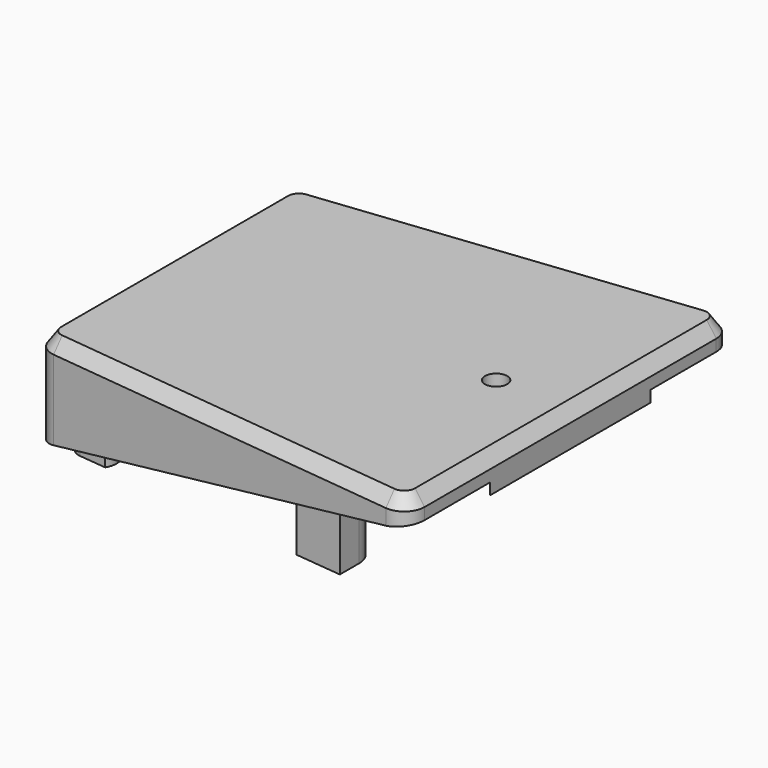
from build123d import *

# Parameters (mm, degrees)
PAD008_DEPTH         = 14
PAD008_DEPTH_BACK    = 5
POCKET006_DEPTH      = 30.001
POCKET006_DEPTH_BACK = 30.001
POCKET032_DEPTH      = 13.2908094213
PAD015_DEPTH         = 16
SKETCH026_W          = 0.7
SKETCH026_H          = 12
SKETCH027_W          = 0.7
SKETCH027_H          = 14
POCKET033_DEPTH      = 14.501
SKETCH037_R          = 1.65
POCKET034_DEPTH      = 14.001
PAD016_DEPTH         = 3
SKETCH036_W          = 6
SKETCH036_H          = 40
POCKET035_DEPTH      = 14.501
POCKET036_DEPTH      = 0.701
PAD017_DEPTH         = 10


with BuildPart() as part:
    # Sketch020 → Pad008 (new body, two sides)
    with BuildSketch(Plane.XY) as pad008_sk:
        with BuildLine():
            Line((26.6687054218, 29.981651204), (-27.3312945782, 23.981651204))
            ThreePointArc((-27.3312945782, 23.981651204), (-29.2353840537, 23.0007643871), (-30, 21))
            Line((-30, 21), (-30, -21))
            ThreePointArc((-30, -21), (-29.2353840537, -23.0007643871), (-27.3312945782, -23.981651204))
            Line((-27.3312945782, -23.981651204), (26.6687054218, -29.981651204))
            ThreePointArc((26.6687054218, -29.981651204), (29.0007643871, -29.2353840537), (30, -27))
            Line((30, -27), (30, 27))
            ThreePointArc((30, 27), (29.0007643871, 29.2353840537), (26.6687054218, 29.981651204))
        make_face()
    extrude(amount=PAD008_DEPTH)
    extrude(pad008_sk.sketch, amount=-PAD008_DEPTH_BACK)

    # Sketch021 → Pocket006 (cut, two sides)
    with BuildSketch(Plane.XZ) as pocket006_sk:
        Polygon((31, -6), (-31, -6), (-31, -0.466136402), (31, 10.466136402), align=None)
    extrude(amount=-POCKET006_DEPTH, mode=Mode.SUBTRACT)
    extrude(pocket006_sk.sketch, amount=POCKET006_DEPTH_BACK, mode=Mode.SUBTRACT)

    # Sketch040 → Pocket032 (cut, through all)
    with BuildSketch(Plane.XY.offset(13)):
        with BuildLine():
            Line((-25.2090569265, 20.276010124), (23.7909430735, 25.426117652))
            ThreePointArc((26, 23.4370738613), (25.3382612127, 24.9233635123), (23.7909430735, 25.426117652))
            Line((26, 23.4370738613), (26, 6.8045027298))
            Line((26, 6.8045027298), (17.6319194267, 3.7587704831))
            ThreePointArc((17.6319194267, 3.7587704831), (15, 0), (17.6319194267, -3.7587704831))
            Line((26, -6.8045027298), (17.6319194267, -3.7587704831))
            Line((26, -6.8045027298), (26, -23.4370738613))
            ThreePointArc((23.7909430735, -25.426117652), (25.3382612127, -24.9233635123), (26, -23.4370738613))
            Line((23.7909430735, -25.426117652), (-25.2090569265, -20.276010124))
            ThreePointArc((-27, -18.2869663333), (-26.486289651, -19.625227546), (-25.2090569265, -20.276010124))
            Line((-27, -18.2869663333), (-27, 18.2869663333))
            ThreePointArc((-25.2090569265, 20.276010124), (-26.486289651, 19.625227546), (-27, 18.2869663333))
        make_face()
    extrude(amount=-POCKET032_DEPTH, mode=Mode.SUBTRACT)

    # Sketch063 → Pad015 (join)
    with BuildSketch(Plane.XY.offset(-2.5)):
        with BuildLine():
            Line((15.5, 21), (15.5, 24.5547044207))
            Line((15.5, 24.5547044207), (8.5, 23.8189747738))
            Line((8.5, 21), (8.5, 23.8189747738))
            ThreePointArc((8.5, 21), (12, 17.5), (15.5, 21))
        make_face()
        with BuildLine():
            Line((8.5, -23.8189747738), (15.5, -24.5547044207))
            Line((15.5, -24.5547044207), (15.5, -21))
            ThreePointArc((15.5, -21), (12, -17.5), (8.5, -21))
            Line((8.5, -23.8189747738), (8.5, -21))
        make_face()
        with BuildLine():
            ThreePointArc((-25, 16), (-22.3826908751, 17.5338168788), (-22.4416970255, 20.5668713701))
            Line((-22.4416970255, 20.5668713701), (-26.5090569265, 20.1393746182))
            ThreePointArc((-26.5090569265, 20.1393746182), (-27.786289651, 19.4885920402), (-28.3, 18.1503308274))
            Line((-28.3, 16), (-28.3, 18.1503308274))
            Line((-25, 16), (-28.3, 16))
        make_face()
        with BuildLine():
            ThreePointArc((-22.4416970255, -20.5668713701), (-22.3826908751, -17.5338168788), (-25, -16))
            Line((-28.3, -16), (-25, -16))
            Line((-28.3, -18.1503308274), (-28.3, -16))
            ThreePointArc((-28.3, -18.1503308274), (-27.786289651, -19.4885920402), (-26.5090569265, -20.1393746182))
            Line((-22.4416970255, -20.5668713701), (-26.5090569265, -20.1393746182))
        make_face()
    extrude(amount=PAD015_DEPTH)

    # Sketch026 → Groove (revolve, cut)
    with BuildSketch(Plane.XZ.offset(21)):
        with Locations((12.35, 2.8)):
            Rectangle(SKETCH026_W, SKETCH026_H)
    groove = revolve(axis=Axis((12, -21, 8.8), (0, 0, -1)), mode=Mode.SUBTRACT)

    # Sketch027 → Groove004 (revolve, cut)
    with BuildSketch(Plane.XZ.offset(19)):
        with Locations((-25.35, 3.5)):
            Rectangle(SKETCH027_W, SKETCH027_H)
    groove004 = revolve(axis=Axis((-25, -19, -17.5), (0, 0, 1)), mode=Mode.SUBTRACT)

    # Mirrored013: Groove, Groove004 across XZ
    add(groove.mirror(Plane.XZ), mode=Mode.SUBTRACT)
    add(groove004.mirror(Plane.XZ), mode=Mode.SUBTRACT)

    # Sketch057 → Pocket033 (cut, through all)
    with BuildSketch(Plane.XY.offset(12)):
        with BuildLine():
            Line((21.9, -1.6743157806), (21.9, 1.6743157806))
            Line((21.9, 1.6743157806), (15.9010990338, 5.1377828683))
            ThreePointArc((15.9010990338, 5.1377828683), (13, 0), (15.9010990338, -5.1377828683))
            Line((15.9010990338, -5.1377828683), (21.9, -1.6743157806))
        make_face()
    extrude(amount=-POCKET033_DEPTH, mode=Mode.SUBTRACT)

    # Sketch037 → Pocket034 (cut, through all)
    with BuildSketch(Plane.XY):
        with Locations((19, 0)):
            Circle(SKETCH037_R)
    extrude(amount=POCKET034_DEPTH, mode=Mode.SUBTRACT)

    # Sketch039 → Pad016 (join)
    with BuildSketch(Plane.XY.offset(8.6)):
        Polygon((28.9, -11.85), (28.9, 11.85), (30, 14.8722251614), (30, -14.8722251614), align=None)
    extrude(amount=PAD016_DEPTH)

    # SubtractivePipe: sweep along a path in Sketch020
    with BuildLine(Plane.XY) as subtractivepipe_path:
        Line((26.6687054218, 29.981651204), (-27.3312945782, 23.981651204))
        ThreePointArc((-27.3312945782, 23.981651204), (-29.2353840537, 23.0007643871), (-30, 21))
        Line((-30, 21), (-30, -21))
        ThreePointArc((-30, -21), (-29.2353840537, -23.0007643871), (-27.3312945782, -23.981651204))
        Line((-27.3312945782, -23.981651204), (26.6687054218, -29.981651204))
        ThreePointArc((26.6687054218, -29.981651204), (29.0007643871, -29.2353840537), (30, -27))
        Line((30, -27), (30, 27))
        ThreePointArc((30, 27), (29.0007643871, 29.2353840537), (26.6687054218, 29.981651204))
    # Sketch035 → SubtractivePipe (sweep, cut)
    with BuildSketch(Plane.XZ):
        Polygon((28.5995849236, 14), (30, 14), (30, 12), align=None)
    sweep(path=subtractivepipe_path.line, mode=Mode.SUBTRACT)

    # Sketch036 → Pocket035 (cut, through all)
    with BuildSketch(Plane.XY.offset(12)):
        with Locations((26, 0)):
            Rectangle(SKETCH036_W, SKETCH036_H)
    extrude(amount=-POCKET035_DEPTH, mode=Mode.SUBTRACT)

    # Sketch054 → Pocket036 (cut, through all)
    with BuildSketch(Plane.YZ.offset(-29.3)):
        with BuildLine():
            Line((-4, 2), (4, 2))
            ThreePointArc((7, -1), (6.1213203436, 1.1213203436), (4, 2))
            Line((7, -1), (7, -3))
            ThreePointArc((4, -6), (6.1213203436, -5.1213203436), (7, -3))
            Line((4, -6), (-4, -6))
            ThreePointArc((-7, -3), (-6.1213203436, -5.1213203436), (-4, -6))
            Line((-7, -3), (-7, -1))
            ThreePointArc((-4, 2), (-6.1213203436, 1.1213203436), (-7, -1))
        make_face()
    extrude(amount=-POCKET036_DEPTH, mode=Mode.SUBTRACT)

    # Sketch064 → Pad017 (join)
    with BuildSketch(Plane.XY.offset(3.3)):
        with BuildLine():
            Line((1.4095389312, 20.486969785), (2.4646015442, 23.3857304905))
            Line((2.4646015442, 23.3857304905), (-2.2829835631, 22.8867391884))
            Line((-1.4095389312, 20.486969785), (-2.2829835631, 22.8867391884))
            ThreePointArc((-1.4095389312, 20.486969785), (0, 19.5), (1.4095389312, 20.486969785))
        make_face()
    pad017 = extrude(amount=PAD017_DEPTH)

    # Mirrored014: Pad017 across XZ
    add(pad017.mirror(Plane.XZ))

    # SubtractivePipe002: sweep along a path in Sketch023
    with BuildLine(Plane(origin=(0, 0, 4), x_dir=(0.984807753, 0, 0.1736481777), z_dir=(-0.1736481777, 0, 0.984807753))) as subtractivepipe002_path:
        Line((-26.343872324, 21.9802268076), (25.656127676, 27.9802268076))
        ThreePointArc((25.656127676, 27.9802268076), (27.996043966, 27.2396000728), (29, 25))
        Line((29, 25), (29, -25))
        ThreePointArc((29, -25), (27.996043966, -27.2396000728), (25.656127676, -27.9802268076))
        Line((25.656127676, -27.9802268076), (-26.343872324, -21.9802268076))
        ThreePointArc((-26.343872324, -21.9802268076), (-28.2396000728, -20.996043966), (-29, -19))
        Line((-29, -19), (-29, 19))
        ThreePointArc((-29, 19), (-28.2396000728, 20.996043966), (-26.343872324, 21.9802268076))
    # Sketch025 → SubtractivePipe002 (sweep, cut)
    with BuildSketch(Plane.XZ):
        Polygon((28.0823303903, 11.7415342162), (27.5746170843, 8.8621489747), (29.5442325904, 9.20944533), align=None)
    sweep(path=subtractivepipe002_path.line, mode=Mode.SUBTRACT)


with BuildPart() as part_1:
    # Body010 placement: moved
    add(part.part.moved(Location((0, 0, 45))))


solid = part_1.part
